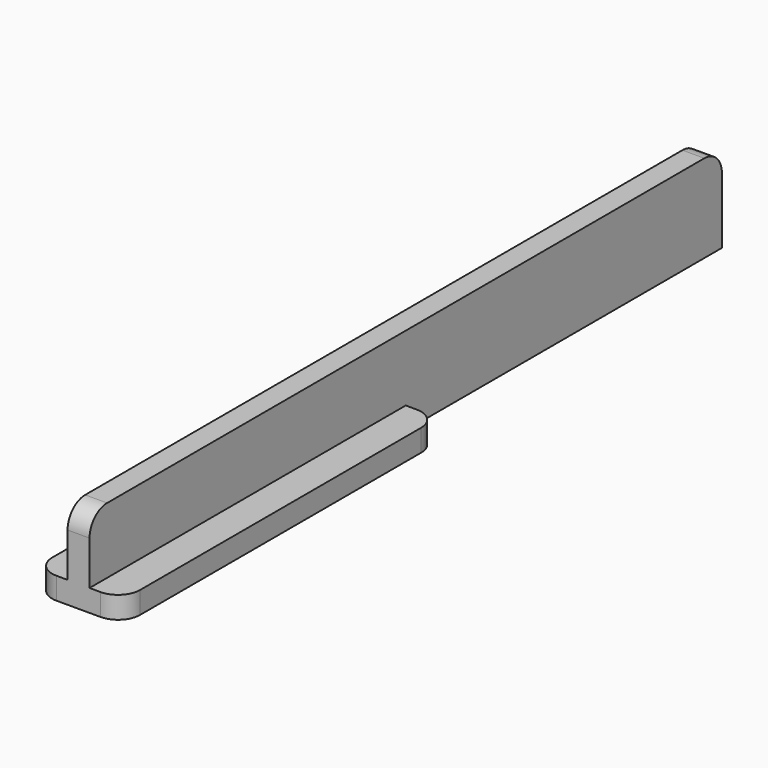
from build123d import *

# Parameters (mm, degrees)
F0_W     = 1.25
F0_H     = 45
F1_DEPTH = 10
F0_W_2   = 3.75
F2_DEPTH = 2.5
F3_R     = 2.5
F4_R     = 2.5


with BuildPart() as f1:
    # F0 (on Top) → F1 (new body)
    with BuildSketch(Plane.XY):
        with Locations((-0.625, 45)):
            Rectangle(F0_W, F0_H)
        with Locations((0.625, 45)):
            Rectangle(F0_W, F0_H)
        with Locations((-0.625, 0)):
            Rectangle(F0_W, F0_H)
        with Locations((0.625, 0)):
            Rectangle(F0_W, F0_H)
    extrude(amount=F1_DEPTH)

    # F0 (on Top) → F2 (join)
    with BuildSketch(Plane.XY):
        with Locations((3.125, 0)):
            Rectangle(F0_W_2, F0_H)
        with Locations((-3.125, 0)):
            Rectangle(F0_W_2, F0_H)
        with Locations((0.625, 0)):
            Rectangle(F0_W, F0_H)
        with Locations((-0.625, 0)):
            Rectangle(F0_W, F0_H)
    extrude(amount=F2_DEPTH)

    # F3
    f3_edges = [f1.edges().sort_by_distance(p)[0] for p in [
        (5, 22.5, 1.25),
        (-5, 22.5, 1.25),
        (-5, -22.5, 1.25),
        (5, -22.5, 1.25),
    ]]
    fillet(f3_edges, radius=F3_R)

    # F4
    f4_edges = [f1.edges().sort_by_distance(p)[0] for p in [
        (0, -22.5, 10),
        (0, 67.5, 10),
    ]]
    fillet(f4_edges, radius=F4_R)


solid = f1.part
